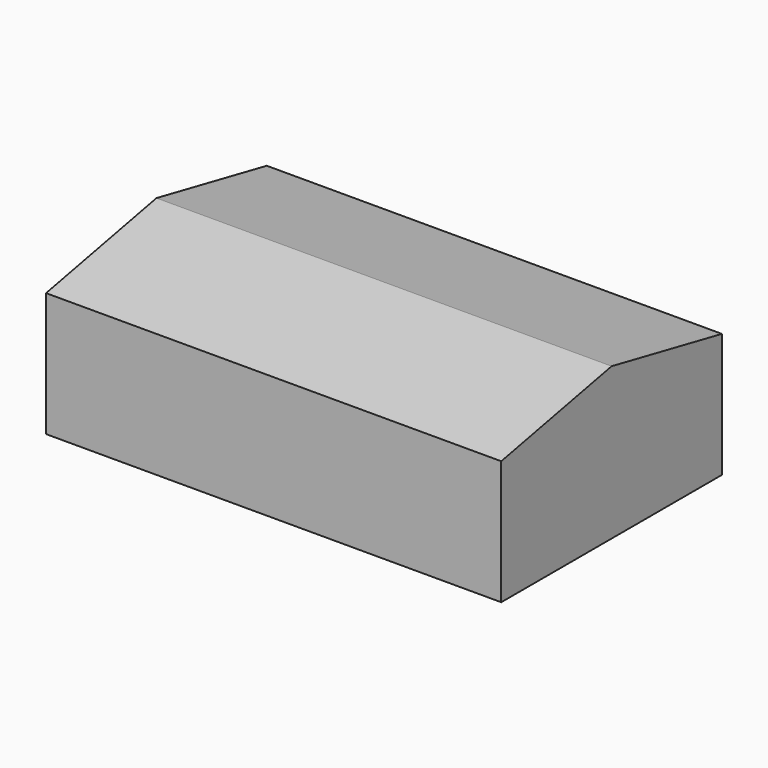
from build123d import *

# Parameters (mm, degrees)
F0_W     = 838.2
F0_H     = 508
F0_W_2   = 685.8
F0_H_2   = 355.6
F1_DEPTH = 228.6
F2_T     = -0.254
F4_DEPTH = 838.2


with BuildPart() as f1:
    # F0 (on Top) → F1 (new body)
    with BuildSketch(Plane.XY):
        with Locations((-259.4876274824, 118.1668707132)):
            Rectangle(F0_W, F0_H)
        with Locations((-259.4876274824, 118.1668707132)):
            Rectangle(F0_W_2, F0_H_2, mode=Mode.SUBTRACT)
        with Locations((-259.4876274824, 118.1668707132)):
            Rectangle(F0_W_2, F0_H_2)
    extrude(amount=F1_DEPTH)

    # F2
    f2_openings = [f1.faces().sort_by_distance(p)[0] for p in [
        (-259.487627, 118.166871, 0),
    ]]
    offset(amount=F2_T, openings=f2_openings)

    # F3 (on face) → F4 (join)
    with BuildSketch(Plane.YZ.offset(159.6123725176)):
        Polygon((118.1668707132, 279.4), (-135.8331292868, 228.6), (118.1668707132, 228.6), align=None)
        Polygon((118.1668707132, 279.4), (118.1668707132, 228.6), (372.1668707132, 228.6), align=None)
    extrude(amount=-F4_DEPTH)


solid = f1.part
